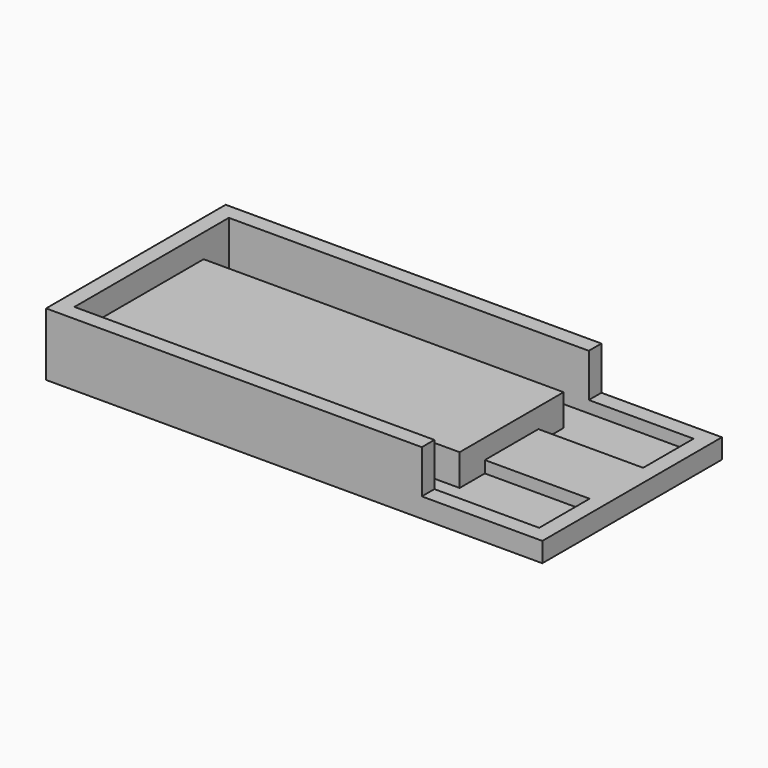
from build123d import *

# Parameters (mm, degrees)
F0_W     = 45.7
F0_H     = 4
F1_DEPTH = 1
F0_W_2   = 13.3
F0_H_2   = 2
F0_H_3   = 8.5
F0_W_3   = 2
F2_DEPTH = 2.5
F3_DEPTH = 5
F4_DEPTH = 8


with BuildPart() as f1:
    # F0 (on Top) → F1 (new body)
    with BuildSketch(Plane.XY):
        Polygon((59, 16.5), (59, 24.5), (45.7, 24.5), (45.7, 20.5), (45.7, 16.5), align=None)
        with Locations((22.85, 22.5)):
            Rectangle(F0_W, F0_H)
    extrude(amount=F1_DEPTH)



with BuildPart() as f1b:
    # F0 (on Top) → F1, piece 2 (new body)
    with BuildSketch(Plane.XY):
        Polygon((59, 0), (59, 8), (45.7, 8), (45.7, 4), (45.7, 0), align=None)
        with Locations((22.85, 2)):
            Rectangle(F0_W, F0_H)
    extrude(amount=F1_DEPTH)


with BuildPart() as f1_1:
    add(f1.part)

    add(f1b.part)  # F2 merges F1b
    # F0 (on Top) → F2 (join)
    with BuildSketch(Plane.XY):
        with Locations((52.35, 25.5)):
            Rectangle(F0_W_2, F0_H_2)
        with Locations((52.35, 12.25)):
            Rectangle(F0_W_2, F0_H_3)
        with Locations((52.35, -1)):
            Rectangle(F0_W_2, F0_H_2)
        with Locations((60, 12.25)):
            Rectangle(F0_W_3, F0_H_3)
        Polygon((61, -2), (61, 8), (59, 8), (59, 0), (59, -2), align=None)
        Polygon((61, 26.5), (59, 26.5), (59, 24.5), (59, 16.5), (61, 16.5), align=None)
    extrude(amount=F2_DEPTH)

    # F0 (on Top) → F3 (join)
    with BuildSketch(Plane.XY):
        Polygon((45.7, 8), (45.7, 16.5), (45.7, 20.5), (0, 20.5), (0, 4), (45.7, 4), align=None)
    extrude(amount=F3_DEPTH)

    # F0 (on Top) → F4 (join)
    with BuildSketch(Plane.XY):
        Polygon((45.7, 24.5), (45.7, 26.5), (-2, 26.5), (-2, -2), (45.7, -2), (45.7, 0), (0, 0), (0, 4), (0, 20.5), (0, 24.5), align=None)
    extrude(amount=F4_DEPTH)


solid = f1_1.part
